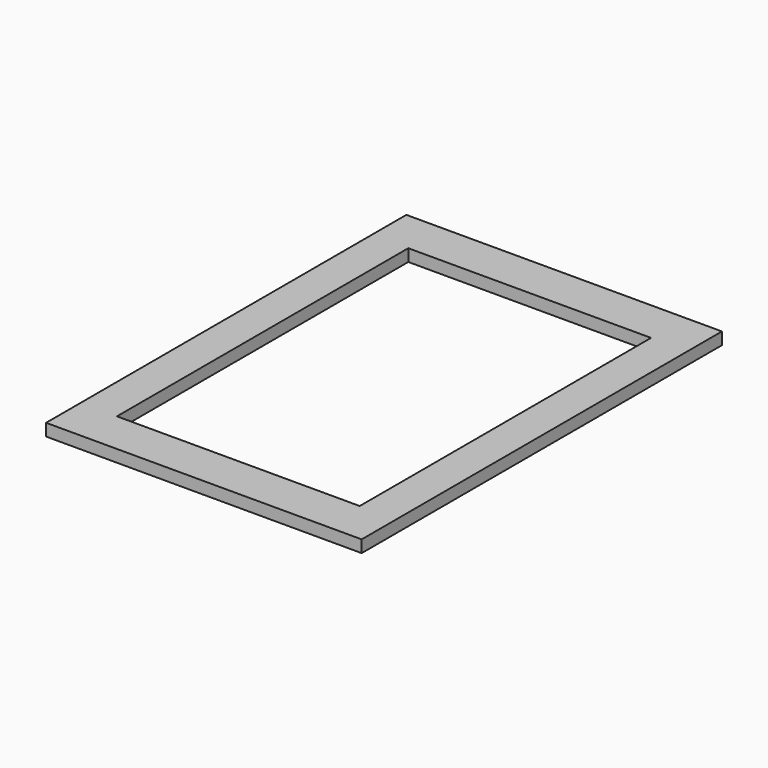
from build123d import *

# Parameters (mm, degrees)
F1_DEPTH = 10


with BuildPart() as f1:
    # F0 (on Top) → F1 (new body)
    with BuildSketch(Plane.XY):
        Polygon((-125, -111.86579), (-125, -236.247406), (5.863019, -236.247406), (5.863019, -200.747406), (-95, -200.747406), (-95, -111.86579), align=None)
        Polygon((5.863019, -200.747406), (5.863019, -236.247406), (135, -236.247406), (135, -50.747406), (105, -50.747406), (105, -200.747406), align=None)
        Polygon((-125, 134.752594), (-125, -111.86579), (-95, -111.86579), (-95, 99.252594), (15.707426, 99.252594), (15.707426, 134.752594), align=None)
        Polygon((105, -50.747406), (135, -50.747406), (135, 134.752594), (15.707426, 134.752594), (15.707426, 99.252594), (105, 99.252594), align=None)
    extrude(amount=F1_DEPTH)


solid = f1.part
